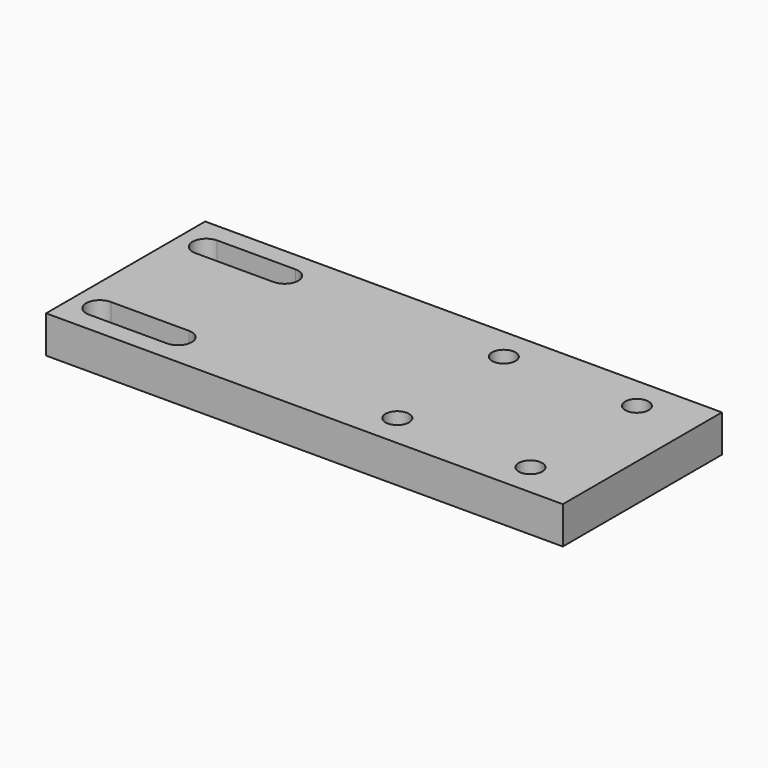
from build123d import *

# Parameters (mm, degrees)
F0_W     = 100
F0_H     = 50.8
F0_R     = 3
F0_W_2   = 32
F1_DEPTH = 9.525


with BuildPart() as f1:
    # F0 (on Top) → F1 (new body)
    with BuildSketch(Plane.XY):
        with Locations((-16, 0)):
            Rectangle(F0_W, F0_H)
        with BuildLine():
            Line((-59, -13.5), (-39, -13.5))
            ThreePointArc((-39, -13.5), (-36.525126, -14.525126), (-35.5, -17))
            ThreePointArc((-35.5, -17), (-36.525126, -19.474874), (-39, -20.5))
            Line((-39, -20.5), (-59, -20.5))
            ThreePointArc((-59, -20.5), (-62.5, -17), (-59, -13.5))
        make_face(mode=Mode.SUBTRACT)
        with Locations((17, -17)):
            Circle(F0_R, mode=Mode.SUBTRACT)
        with BuildLine():
            ThreePointArc((-59, 13.5), (-62.5, 17), (-59, 20.5))
            Line((-59, 20.5), (-39, 20.5))
            ThreePointArc((-39, 20.5), (-36.525126, 19.474874), (-35.5, 17))
            ThreePointArc((-35.5, 17), (-36.525126, 14.525126), (-39, 13.5))
            Line((-39, 13.5), (-59, 13.5))
        make_face(mode=Mode.SUBTRACT)
        with Locations((17, 17)):
            Circle(F0_R, mode=Mode.SUBTRACT)
        with Locations((50, 0)):
            Rectangle(F0_W_2, F0_H)
        with Locations((51, -17)):
            Circle(F0_R, mode=Mode.SUBTRACT)
        with Locations((51, 17)):
            Circle(F0_R, mode=Mode.SUBTRACT)
    extrude(amount=F1_DEPTH)


solid = f1.part
